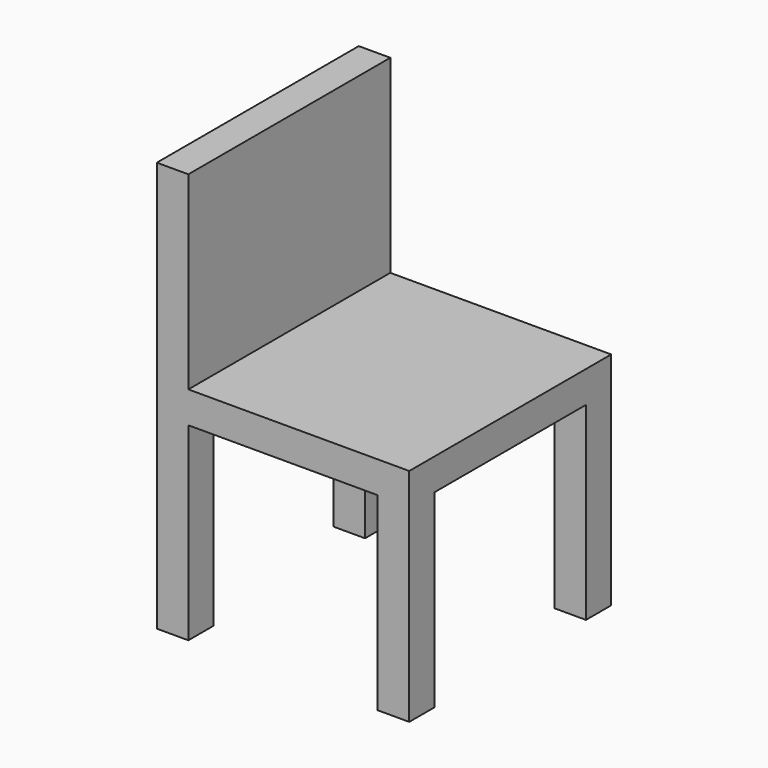
from build123d import *

# Parameters (mm, degrees)
F0_W     = 101.6
F0_H     = 101.6
F1_DEPTH = 12.7
F2_W     = 12.7
F2_H     = 12.7
F3_DEPTH = 76.2
F4_W     = 12.7
F4_H     = 101.6
F5_DEPTH = 76.2


with BuildPart() as f1:
    # F0 (on Top) → F1 (new body)
    with BuildSketch(Plane.XY):
        with Locations((-50.8, 51.606577)):
            Rectangle(F0_W, F0_H)
    extrude(amount=F1_DEPTH)

    # F2 (on face) → F3 (join)
    with BuildSketch(Plane(origin=(0, 0, 0), x_dir=(1, 0, 0), z_dir=(0, 0, -1))):
        with Locations((-95.25, -7.156577)):
            Rectangle(F2_W, F2_H)
        with Locations((-6.35, -7.156577)):
            Rectangle(F2_W, F2_H)
        with Locations((-6.35, -96.056577)):
            Rectangle(F2_W, F2_H)
        with Locations((-95.25, -96.056577)):
            Rectangle(F2_W, F2_H)
    extrude(amount=F3_DEPTH)

    # F4 (on face) → F5 (join)
    with BuildSketch(Plane.XY.offset(12.7)):
        with Locations((-95.25, 51.606577)):
            Rectangle(F4_W, F4_H)
    extrude(amount=F5_DEPTH)


solid = f1.part
